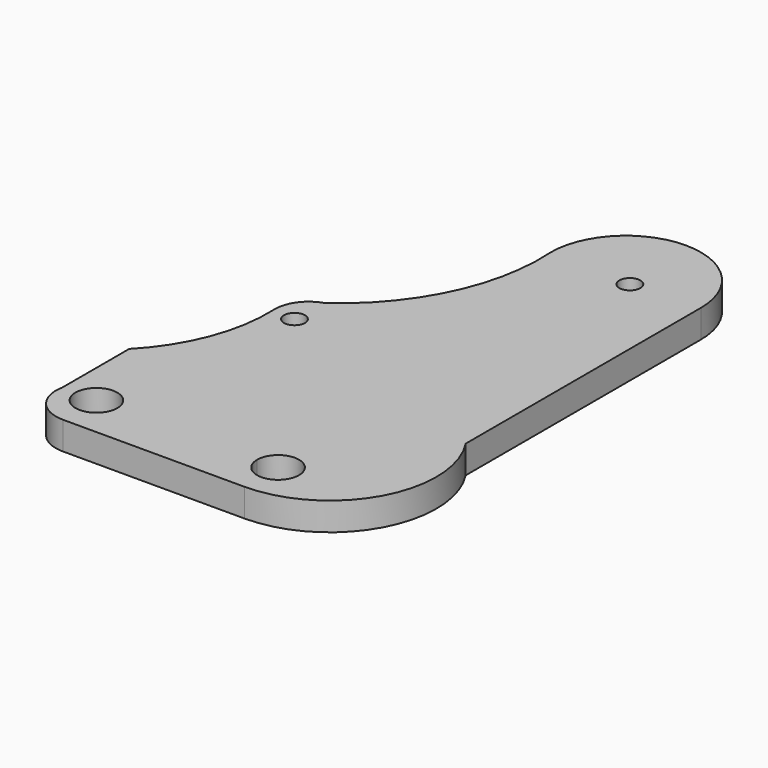
from build123d import *

# Parameters (mm, degrees)
F1_DEPTH = 25.4


with BuildPart() as f1:
    # F0 (on Top) → F1 (new body)
    with BuildSketch(Plane.XY):
        with BuildLine():
            ThreePointArc((0, -19.05), (-13.470384, 13.470384), (19.05, 0))
            Line((19.05, 0), (107.95, 0))
            Line((107.95, 0), (146.05, 0))
            ThreePointArc((146.05, 0), (165.1, 19.05), (184.15, 0))
            ThreePointArc((184.15, 0), (178.570384, -13.470384), (165.1, -19.05))
            Line((165.1, -19.05), (165.1, -38.1))
            ThreePointArc((165.1, -38.1), (250.30057, 12.679398), (246.173739, 111.778609))
            Line((246.173739, 111.778609), (246.173739, 378.995508))
            ThreePointArc((246.173739, 378.995508), (177.89612, 447.273128), (109.6185, 378.995508))
            ThreePointArc((109.6185, 378.995508), (92.381272, 288.495891), (33.114698, 217.9638))
            ThreePointArc((33.114698, 217.9638), (16.768044, 206.023539), (11.306845, 186.531022))
            ThreePointArc((11.306845, 186.531022), (1.334302, 127.016756), (-31.20885, 76.2))
            Line((-31.20885, 76.2), (-31.20885, 0))
            ThreePointArc((-31.20885, 0), (-24.625202, -26.439188), (0, -38.1))
            Line((0, -38.1), (0, -19.05))
        make_face()
        with BuildLine():
            ThreePointArc((41.275, 185.293), (38.485192, 178.557808), (31.75, 175.768))
            ThreePointArc((31.75, 175.768), (25.014808, 192.028192), (41.275, 185.293))
        make_face(mode=Mode.SUBTRACT)
        with BuildLine():
            ThreePointArc((193.675, 375.793), (190.885192, 369.057808), (184.15, 366.268))
            ThreePointArc((184.15, 366.268), (177.414808, 382.528192), (193.675, 375.793))
        make_face(mode=Mode.SUBTRACT)
        with BuildLine():
            Line((107.95, 0), (19.05, 0))
            ThreePointArc((19.05, 0), (13.470384, -13.470384), (0, -19.05))
            Line((0, -19.05), (0, -38.1))
            Line((0, -38.1), (165.1, -38.1))
            Line((165.1, -38.1), (165.1, -19.05))
            ThreePointArc((165.1, -19.05), (151.629616, -13.470384), (146.05, 0))
            Line((146.05, 0), (107.95, 0))
        make_face()
    extrude(amount=F1_DEPTH)


solid = f1.part
